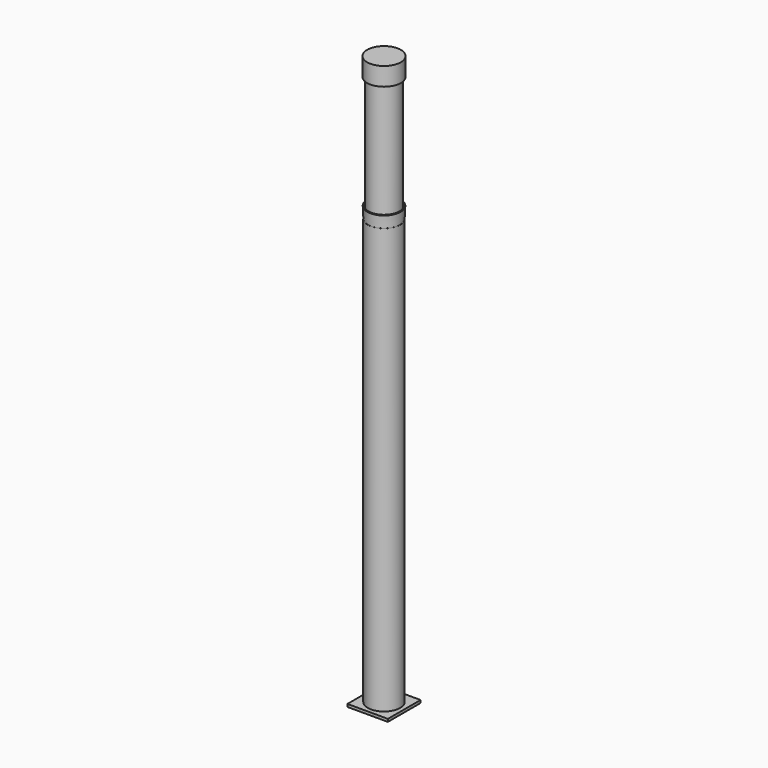
from build123d import *

# Parameters (mm, degrees)
F0_R        = 76.2
F0_R_2      = 67.2
F1_DEPTH    = 2000
F2_W        = 190.213978
F2_H        = 192.253948
F3_DEPTH    = 12.7
F5_FACE_R   = 69.858185
F5_FACE_R_2 = 60.750059
F6_DEPTH    = 600


with BuildPart() as f1:
    # F0 (on Top) → F1 (new body)
    with BuildSketch(Plane.XY):
        Circle(F0_R)
        Circle(F0_R_2, mode=Mode.SUBTRACT)
    extrude(amount=F1_DEPTH)

    # F2 (on Top) → F3 (join)
    with BuildSketch(Plane.XY):
        Rectangle(F2_W, F2_H)
    extrude(amount=-F3_DEPTH)


with BuildPart() as f5:
    # F4 (on Right) → F5 (revolve)
    with BuildSketch(Plane.YZ):
        Polygon((66.937063, 2000.095129), (75.937063, 2000.095129), (78.319028, 2054.286242), (71.962895, 2054.286242), (69.858185, 2006.402849), (60.750059, 2006.402849), (59.957865, 1976.150161), (0, 1976.150161), (0, 1969.800161), (66.143761, 1969.800161), align=None)
        Polygon((61.426011, 1971.021891), (61.893776, 1971.021891), (61.42658, 1971.005576), align=None, mode=Mode.SUBTRACT)
    revolve(axis=Axis((0, 0, 2033.346772), (0, 0, -1)))


with BuildPart() as f6:
    # F5_face (on face) → F6 (new body)
    with BuildSketch(Plane.XY.offset(2006.402849)):
        Circle(F5_FACE_R)
        Circle(F5_FACE_R_2, mode=Mode.SUBTRACT)
    extrude(amount=F6_DEPTH)


with BuildPart() as f8:
    # F7 (on Right) → F8 (revolve)
    with BuildSketch(Plane.YZ):
        Polygon((70.359498, 2665.35449), (70.359498, 2588.150978), (79.336651, 2588.150978), (79.336651, 2674.03245), (0, 2674.03245), (0, 2665.35449), align=None)
    revolve(axis=Axis((0, 0, 2669.69347), (0, 0, -1)))


solid = Compound([f1.part, f5.part, f6.part, f8.part])
